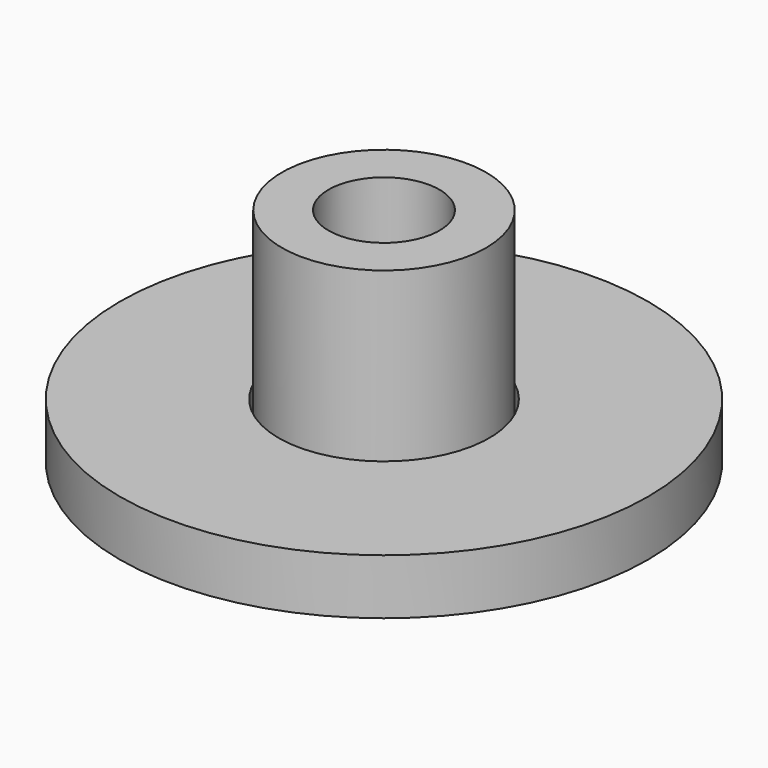
from build123d import *

# Parameters (mm, degrees)
F0_R     = 60.48165
F1_DEPTH = 12.7
F3_D     = 48.26
F4_R     = 23.389423
F5_DEPTH = 50.8
F7_D     = 25.4


with BuildPart() as f1:
    # F0 (on Top) → F1 (new body)
    with BuildSketch(Plane.XY):
        Circle(F0_R)
    extrude(amount=F1_DEPTH)

    # F3 (through all)
    with Locations(Plane.XY.offset(12.7)):
        with Locations((0, 0)):
            Hole(F3_D / 2)


with BuildPart() as f5:
    # F4 (on Top) → F5 (new body)
    with BuildSketch(Plane.XY):
        Circle(F4_R)
    extrude(amount=F5_DEPTH)

    # F7 (through all)
    with Locations(Plane(origin=(0, 0, 0), x_dir=(1, 0, 0), z_dir=(0, 0, -1))):
        with Locations((0, 0)):
            Hole(F7_D / 2)


solid = Compound([f1.part, f5.part])
